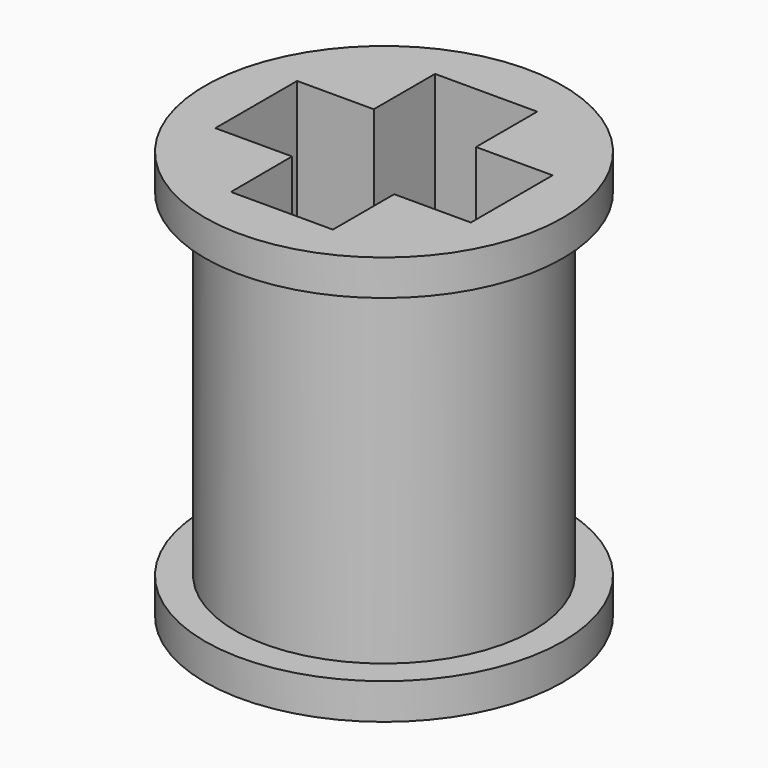
from build123d import *

# Parameters (mm, degrees)
F0_R     = 8.89
F1_DEPTH = 20.32
F3_DEPTH = 20.32
F4_W     = 3.678773
F4_H     = 16.764444


with BuildPart() as f1:
    # F0 (on Top) → F1 (new body)
    with BuildSketch(Plane.XY):
        Circle(F0_R)
    extrude(amount=F1_DEPTH)

    # F2 (on face) → F3 (cut)
    with BuildSketch(Plane.XY.offset(20.32)):
        Polygon((-2.526941, -6.35), (0, -6.35), (2.54, -6.35), (2.54, -2.54), (6.35, -2.54), (6.35, 0), (6.35, 2.540121), (2.54, 2.540121), (2.54, 6.345605), (0, 6.345605), (-2.54, 6.345605), (-2.54, 2.540121), (-6.35, 2.540121), (-6.35, 0), (-6.35, -2.54), (-2.54, -2.54), align=None)
    extrude(amount=-F3_DEPTH, mode=Mode.SUBTRACT)

    # F4 (on Front) → F5 (revolve, cut)
    with BuildSketch(Plane.XZ):
        with Locations((9.249083, 10.164065)):
            Rectangle(F4_W, F4_H)
    revolve(axis=Axis((0, 0, 10.164065), (0, 0, -1)), mode=Mode.SUBTRACT)


solid = f1.part
